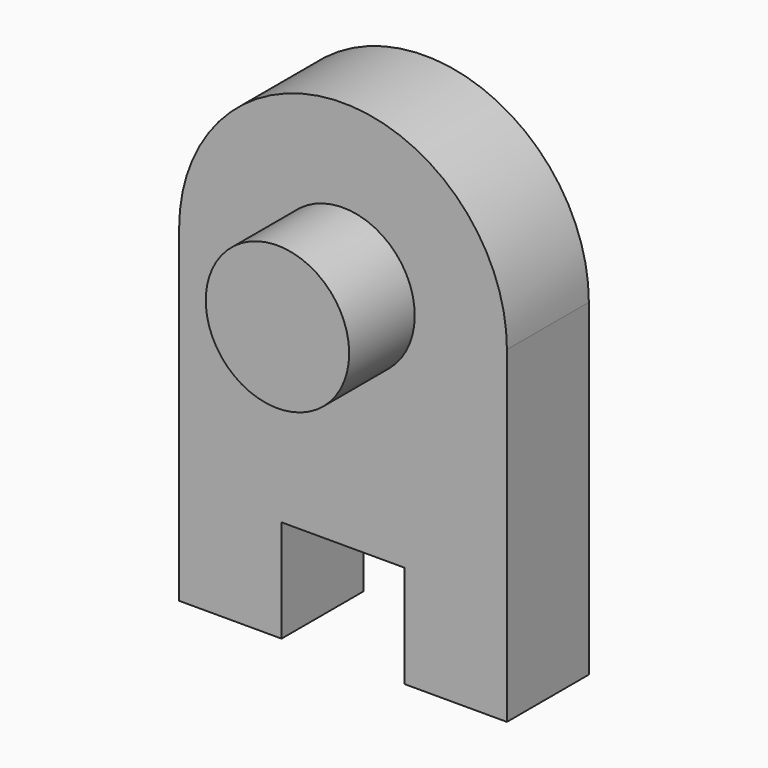
from build123d import *

# Parameters (mm, degrees)
F1_DEPTH = 250
F2_R     = 175
F3_DEPTH = 200


with BuildPart() as f1:
    # F0 (on Front) → F1 (new body)
    with BuildSketch(Plane.XZ):
        with BuildLine():
            Line((150, -400), (400, -400))
            Line((400, -400), (400, 400))
            ThreePointArc((400, 400), (0, 800), (-400, 400))
            Line((-400, 400), (-400, -400))
            Line((-400, -400), (-150, -400))
            Line((-150, -400), (-150, -150))
            Line((-150, -150), (150, -150))
            Line((150, -150), (150, -400))
        make_face()
    extrude(amount=F1_DEPTH)

    # F2 (on face) → F3 (join)
    with BuildSketch(Plane.XZ.offset(250)):
        with Locations((0, 400)):
            Circle(F2_R)
    extrude(amount=F3_DEPTH)


solid = f1.part
